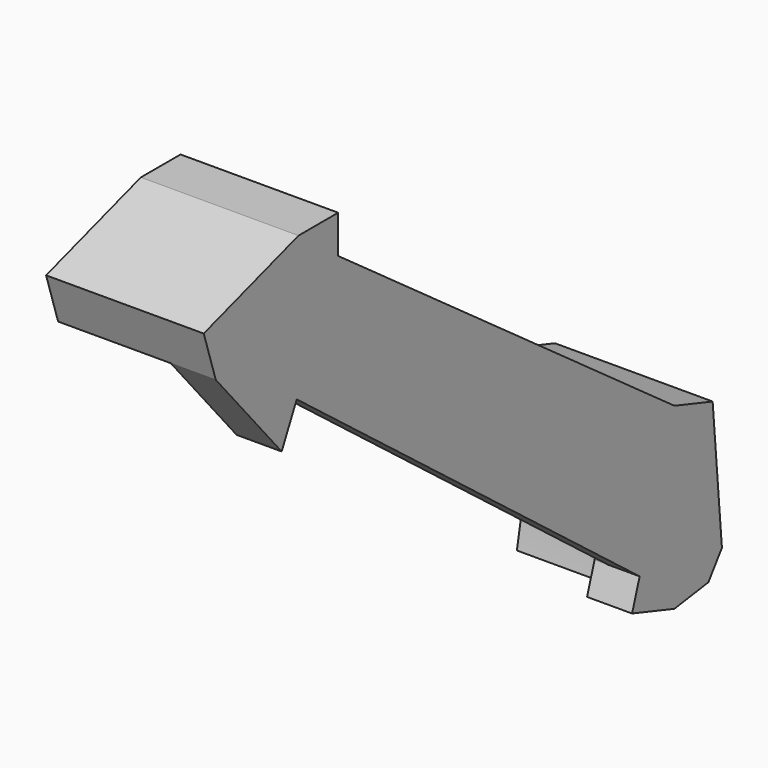
from build123d import *

# Parameters (mm, degrees)
F1_DEPTH = 2
F2_DEPTH = 0.6
F3_DEPTH = 5


with BuildPart() as f1:
    # F0 (on Right) → F1 (new body)
    with BuildSketch(Plane.YZ):
        with BuildLine():
            Line((-49.333436, 42.25241), (-47.034119, 46.923187))
            ThreePointArc((-47.034119, 46.923187), (-50.537652, 46.231209), (-53.82776, 44.842407))
            Line((-53.82776, 44.842407), (-50.170235, 40.552557))
            Line((-50.170235, 40.552557), (-49.333436, 42.25241))
        make_face()
        Polygon((-30.300626, 27.594882), (-28.371687, 33.48021), (-47.034119, 46.923187), (-49.333436, 42.25241), align=None)
        with BuildLine():
            ThreePointArc((-28.365389, 25.54377), (-28.026232, 27.508204), (-27.912688, 29.498465))
            ThreePointArc((-27.912688, 29.498465), (-28.027817, 31.502521), (-28.371687, 33.48021))
            Line((-28.371687, 33.48021), (-30.300626, 27.594882))
            Line((-30.300626, 27.594882), (-30.72083, 26.312811))
            Line((-30.72083, 26.312811), (-28.371687, 25.542871))
            Line((-28.371687, 25.542871), (-28.365389, 25.54377))
        make_face()
        with BuildLine():
            ThreePointArc((-28.371687, 33.48021), (-28.027817, 31.502521), (-27.912688, 29.498465))
            ThreePointArc((-27.912688, 29.498465), (-28.026232, 27.508204), (-28.365389, 25.54377))
            Line((-28.365389, 25.54377), (-26.486235, 25.812047))
            Line((-26.486235, 25.812047), (-25.734026, 26.853122))
            Line((-25.734026, 26.853122), (-26.24937, 32.784612))
            Line((-26.24937, 32.784612), (-28.371687, 33.48021))
        make_face()
        with BuildLine():
            ThreePointArc((-53.82776, 44.842407), (-50.537652, 46.231209), (-47.034119, 46.923187))
            Line((-47.034119, 46.923187), (-47.034119, 48.613626))
            Line((-47.034119, 48.613626), (-49.236418, 48.613626))
            Line((-49.236418, 48.613626), (-54.496467, 46.923187))
            Line((-54.496467, 46.923187), (-53.82776, 44.842407))
        make_face()
    extrude(amount=F1_DEPTH)

    # F0 (on Right) → F2 (cut)
    with BuildSketch(Plane.YZ):
        Polygon((-30.300626, 27.594882), (-28.371687, 33.48021), (-47.034119, 46.923187), (-49.333436, 42.25241), align=None)
    extrude(amount=F2_DEPTH, mode=Mode.SUBTRACT)

    # F0 (on Right) → F3 (join)
    with BuildSketch(Plane.YZ):
        with BuildLine():
            ThreePointArc((-53.82776, 44.842407), (-50.537652, 46.231209), (-47.034119, 46.923187))
            Line((-47.034119, 46.923187), (-47.034119, 48.613626))
            Line((-47.034119, 48.613626), (-49.236418, 48.613626))
            Line((-49.236418, 48.613626), (-54.496467, 46.923187))
            Line((-54.496467, 46.923187), (-53.82776, 44.842407))
        make_face()
        with BuildLine():
            ThreePointArc((-28.371687, 33.48021), (-28.027817, 31.502521), (-27.912688, 29.498465))
            ThreePointArc((-27.912688, 29.498465), (-28.026232, 27.508204), (-28.365389, 25.54377))
            Line((-28.365389, 25.54377), (-26.486235, 25.812047))
            Line((-26.486235, 25.812047), (-25.734026, 26.853122))
            Line((-25.734026, 26.853122), (-26.24937, 32.784612))
            Line((-26.24937, 32.784612), (-28.371687, 33.48021))
        make_face()
    extrude(amount=-F3_DEPTH)


solid = f1.part
